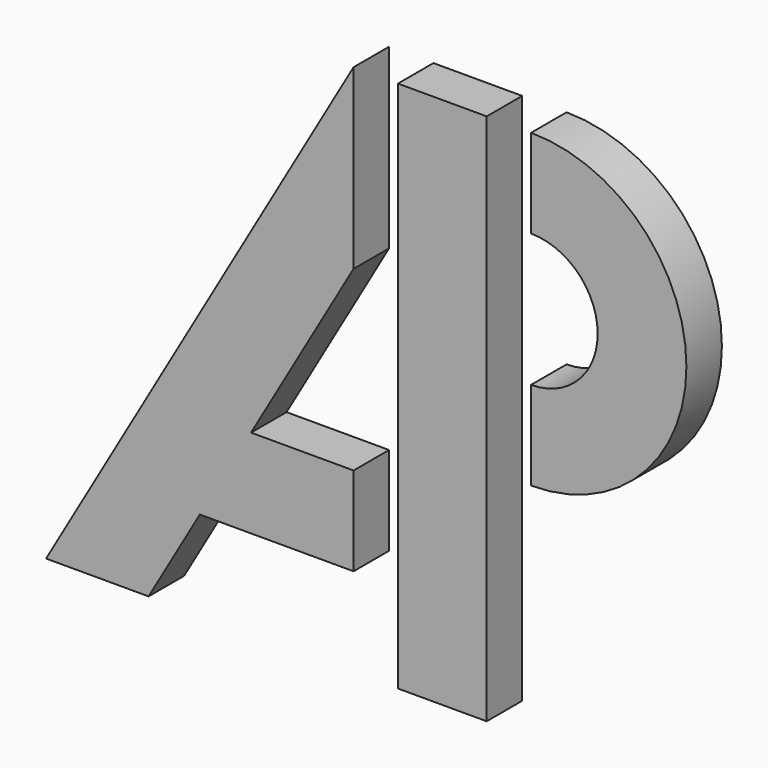
from build123d import *

# Parameters (mm, degrees)
F1_DEPTH = 6.35


with BuildPart() as f1:
    # F0 (on Front) → F1 (new body)
    with BuildSketch(Plane.XZ):
        Polygon((-12.7, 12.7), (-12.7, 38.1), (-56.694091, -38.1), (-42.029394, -38.1), (-34.697045, -25.4), (-27.364697, -12.7), align=None)
        Polygon((6.35, 38.1), (-6.35, 38.1), (-6.35, 12.7), (-6.35, -12.7), (-6.35, -25.4), (-6.35, -38.1), (6.35, -38.1), (6.35, -6.35), (6.35, 6.35), (6.35, 25.4), align=None)
        with BuildLine():
            ThreePointArc((12.7, -6.35), (34.925, 15.875), (12.7, 38.1))
            Line((12.7, 38.1), (12.7, 25.4))
            ThreePointArc((12.7, 25.4), (22.225, 15.875), (12.7, 6.35))
            Line((12.7, 6.35), (12.7, -6.35))
        make_face()
        Polygon((-12.7, -25.4), (-12.7, -12.7), (-27.364697, -12.7), (-34.697045, -25.4), align=None)
    extrude(amount=F1_DEPTH)


solid = f1.part
